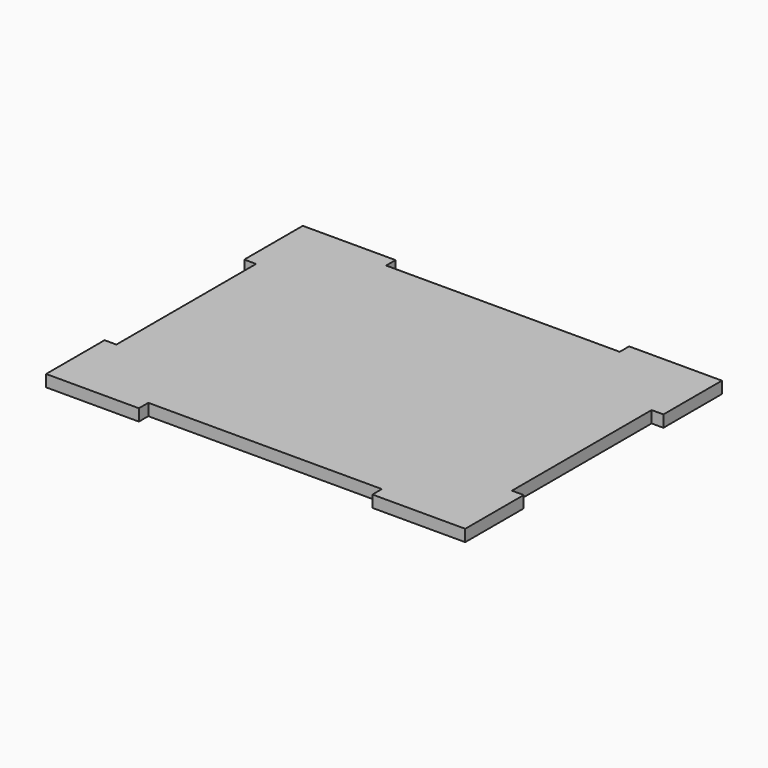
from build123d import *

# Parameters (mm, degrees)
F2_DEPTH = 3


with BuildPart() as f2:
    # F1 (on Top) → F2 (new body)
    with BuildSketch(Plane.XY):
        Polygon((0, 37.8), (-29.7, 37.8), (-29.7, 40.8), (-53.3, 40.8), (-53.3, 22.2), (-50.3, 22.2), (-50.3, 0), (-50.3, -22.2), (-53.3, -22.2), (-53.3, -40.8), (-29.7, -40.8), (-29.7, -37.8), (0, -37.8), (29.7, -37.8), (29.7, -40.8), (53.3, -40.8), (53.3, -22.2), (50.3, -22.2), (50.3, 0), (50.3, 22.2), (53.3, 22.2), (53.3, 40.8), (29.7, 40.8), (29.7, 37.8), align=None)
    extrude(amount=F2_DEPTH)


solid = f2.part
